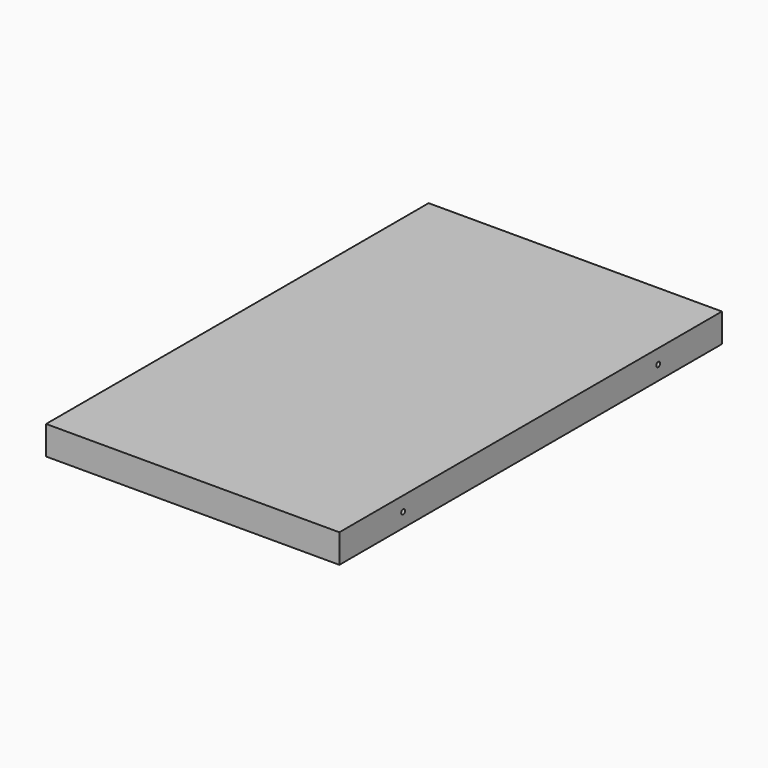
from build123d import *

# Parameters (mm, degrees)
F0_W     = 184
F0_H     = 300
F1_DEPTH = 18
F2_R     = 1.5
F3_DEPTH = 184.001


with BuildPart() as f1:
    # F0 (on Top) → F1 (new body)
    with BuildSketch(Plane.XY):
        with Locations((-92, -150)):
            Rectangle(F0_W, F0_H)
    extrude(amount=F1_DEPTH)

    # F2 (on face) → F3 (cut, through all)
    with BuildSketch(Plane.YZ):
        with Locations((-250, 9)):
            Circle(F2_R)
        with Locations((-50, 9)):
            Circle(F2_R)
    extrude(amount=-F3_DEPTH, mode=Mode.SUBTRACT)


solid = f1.part
